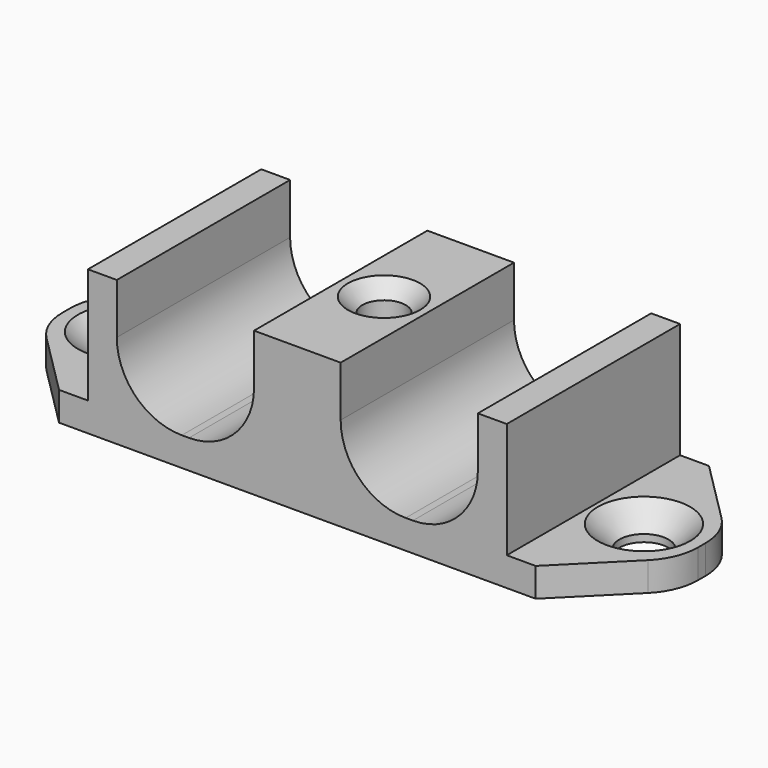
from build123d import *

# Parameters (mm, degrees)
SKETCH_W        = 44
SKETCH_H        = 15
SKETCH_R        = 1.7
PAD_DEPTH       = 2
CHAMFER_SIZE    = 1.5
SKETCH001_W     = 2
SKETCH001_H     = 15
SKETCH001_W_2   = 6
PAD001_DEPTH    = 8
FILLET_R        = 4.5
SKETCH002_R     = 1.5
POCKET_DEPTH    = 8
CHAMFER001_SIZE = 5.5
FILLET001_R     = 4
CHAMFER002_SIZE = 1


with BuildPart() as part:
    # Sketch → Pad (new body)
    with BuildSketch(Plane.XY):
        with Locations((22, 7.5)):
            Rectangle(SKETCH_W, SKETCH_H)
        with Locations((4, 7.5)):
            Circle(SKETCH_R, mode=Mode.SUBTRACT)
        with Locations((40, 7.5)):
            Circle(SKETCH_R, mode=Mode.SUBTRACT)
    extrude(amount=PAD_DEPTH)

    # Chamfer
    chamfer_edges = [part.edges().sort_by_distance(p)[0] for p in [
        (2.3, 7.5, 2),
        (38.3, 7.5, 2),
    ]]
    chamfer(chamfer_edges, length=CHAMFER_SIZE)

    # Sketch001 (on Face4 of Chamfer) → Pad001 (join)
    with BuildSketch(Plane.XY.offset(2)):
        with Locations((8.5, 7.5)):
            Rectangle(SKETCH001_W, SKETCH001_H)
        with Locations((35.5, 7.5)):
            Rectangle(SKETCH001_W, SKETCH001_H)
        with Locations((22, 7.5)):
            Rectangle(SKETCH001_W_2, SKETCH001_H)
    extrude(amount=PAD001_DEPTH)

    # Fillet
    fillet_edges = [part.edges().sort_by_distance(p)[0] for p in [
        (9.5, 7.5, 2),
        (19, 7.5, 2),
        (25, 7.5, 2),
        (34.5, 7.5, 2),
    ]]
    fillet(fillet_edges, radius=FILLET_R)

    # Sketch002 (on Face20 of Fillet) → Pocket (cut)
    with BuildSketch(Plane.XY.offset(10)):
        with Locations((22, 7.5)):
            Circle(SKETCH002_R)
    extrude(amount=-POCKET_DEPTH, mode=Mode.SUBTRACT)

    # Chamfer001
    chamfer001_edges = [part.edges().sort_by_distance(p)[0] for p in [
        (0, 0, 1),
        (0, 15, 1),
        (44, 15, 1),
        (44, 0, 1),
    ]]
    chamfer(chamfer001_edges, length=CHAMFER001_SIZE)

    # Fillet001
    fillet001_edges = [part.edges().sort_by_distance(p)[0] for p in [
        (0, 5.5, 1),
        (0, 9.5, 1),
        (44, 9.5, 1),
        (44, 5.5, 1),
    ]]
    fillet(fillet001_edges, radius=FILLET001_R)

    # Chamfer002
    chamfer002_edges = [part.edges().sort_by_distance(p)[0] for p in [
        (20.5, 7.5, 10),
    ]]
    chamfer(chamfer002_edges, length=CHAMFER002_SIZE)


solid = part.part
